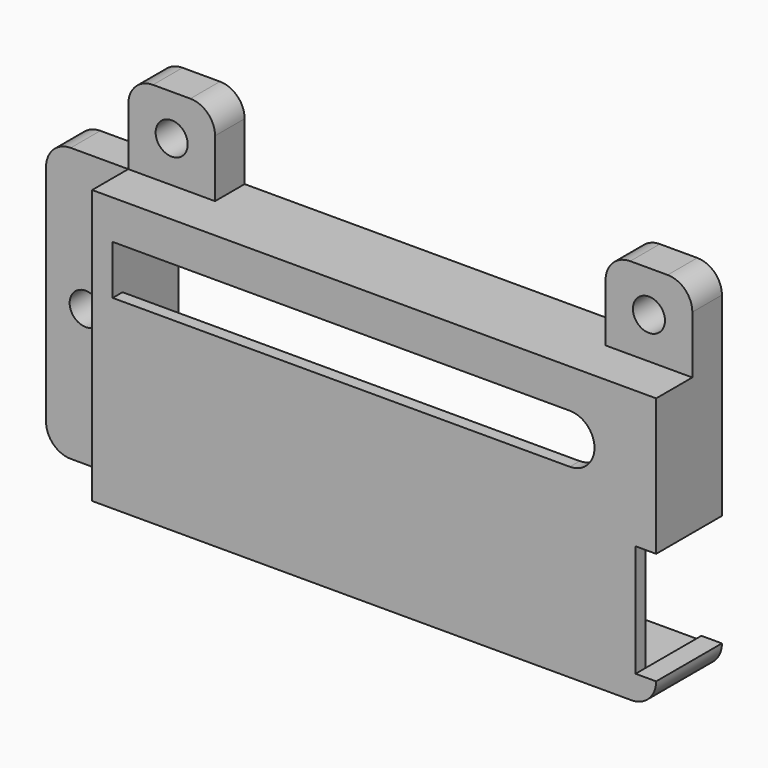
from build123d import *

# Parameters (mm, degrees)
F0_R     = 1.95
F1_DEPTH = 10
F2_DEPTH = 8.5
F3_R     = 1.95
F4_DEPTH = 5.5
F6_DEPTH = 25


with BuildPart() as f1:
    # F0 (on Front) → F1 (new body)
    with BuildSketch(Plane.XZ):
        with BuildLine():
            Line((-34.3, 23.65), (-34.3, 16.65))
            Line((-34.3, 16.65), (-23.75, 16.65))
            Line((-23.75, 16.65), (-23.75, 23.65))
            ThreePointArc((-23.75, 23.65), (-24.62868, 25.77132), (-26.75, 26.65))
            Line((-26.75, 26.65), (-31.3, 26.65))
            ThreePointArc((-31.3, 26.65), (-33.42132, 25.77132), (-34.3, 23.65))
        make_face()
        with Locations((-29.025, 21.65)):
            Circle(F0_R, mode=Mode.SUBTRACT)
        with BuildLine():
            Line((23.75, 16.65), (34.3, 16.65))
            Line((34.3, 16.65), (34.3, 23.65))
            ThreePointArc((34.3, 23.65), (33.42132, 25.77132), (31.3, 26.65))
            Line((31.3, 26.65), (26.75, 26.65))
            ThreePointArc((26.75, 26.65), (24.62868, 25.77132), (23.75, 23.65))
            Line((23.75, 23.65), (23.75, 16.65))
        make_face()
        with Locations((29.025, 21.65)):
            Circle(F0_R, mode=Mode.SUBTRACT)
        with BuildLine():
            Line((34.3, 16.65), (34.3, 6.1))
            Line((34.3, 6.1), (41.3, 6.1))
            ThreePointArc((41.3, 6.1), (43.42132, 6.97868), (44.3, 9.1))
            Line((44.3, 9.1), (44.3, 13.65))
            ThreePointArc((44.3, 13.65), (43.42132, 15.77132), (41.3, 16.65))
            Line((41.3, 16.65), (34.3, 16.65))
        make_face()
        with Locations((39.3, 11.375)):
            Circle(F0_R, mode=Mode.SUBTRACT)
        with BuildLine():
            Line((-31.8, 11.91), (-31.8, 14.15))
            Line((-31.8, 14.15), (31.8, 14.15))
            Line((31.8, 14.15), (31.8, 0))
            Line((31.8, 0), (34.3, 0))
            Line((34.3, 0), (34.3, 6.1))
            Line((34.3, 6.1), (34.3, 16.65))
            Line((34.3, 16.65), (23.75, 16.65))
            Line((23.75, 16.65), (-23.75, 16.65))
            Line((-23.75, 16.65), (-34.3, 16.65))
            Line((-34.3, 16.65), (-34.3, -16.65))
            Line((-34.3, -16.65), (31.3, -16.65))
            ThreePointArc((31.3, -16.65), (33.42132, -15.77132), (34.3, -13.65))
            Line((34.3, -13.65), (31.8, -13.65))
            Line((31.8, -13.65), (31.8, -14.15))
            Line((31.8, -14.15), (-31.8, -14.15))
            Line((-31.8, -14.15), (-31.8, 5.91))
            Line((-31.8, 5.91), (-31.8, 11.91))
        make_face()
        with BuildLine():
            Line((-41.3, -16.65), (-34.3, -16.65))
            Line((-34.3, -16.65), (-34.3, 16.65))
            Line((-34.3, 16.65), (-41.3, 16.65))
            ThreePointArc((-41.3, 16.65), (-43.42132, 15.77132), (-44.3, 13.65))
            Line((-44.3, 13.65), (-44.3, -13.65))
            ThreePointArc((-44.3, -13.65), (-43.42132, -15.77132), (-41.3, -16.65))
        make_face()
        with Locations((-39.483927, 0)):
            Circle(F0_R, mode=Mode.SUBTRACT)
        with BuildLine():
            Line((31.8, 14.15), (-31.8, 14.15))
            Line((-31.8, 14.15), (-31.8, 11.91))
            Line((-31.8, 11.91), (23.8, 11.91))
            ThreePointArc((23.8, 11.91), (26.8, 8.91), (23.8, 5.91))
            Line((23.8, 5.91), (-31.8, 5.91))
            Line((-31.8, 5.91), (-31.8, -14.15))
            Line((-31.8, -14.15), (31.8, -14.15))
            Line((31.8, -14.15), (31.8, -13.65))
            Line((31.8, -13.65), (31.8, 0))
            Line((31.8, 0), (31.8, 14.15))
        make_face()
    extrude(amount=F1_DEPTH)

    # F0 (on Front) → F2 (cut)
    with BuildSketch(Plane.XZ):
        with BuildLine():
            Line((31.8, 14.15), (-31.8, 14.15))
            Line((-31.8, 14.15), (-31.8, 11.91))
            Line((-31.8, 11.91), (23.8, 11.91))
            ThreePointArc((23.8, 11.91), (26.8, 8.91), (23.8, 5.91))
            Line((23.8, 5.91), (-31.8, 5.91))
            Line((-31.8, 5.91), (-31.8, -14.15))
            Line((-31.8, -14.15), (31.8, -14.15))
            Line((31.8, -14.15), (31.8, -13.65))
            Line((31.8, -13.65), (31.8, 0))
            Line((31.8, 0), (31.8, 14.15))
        make_face()
    extrude(amount=F2_DEPTH, mode=Mode.SUBTRACT)

    # F3 (on face) → F4 (cut)
    with BuildSketch(Plane.XZ.offset(10)):
        with BuildLine():
            ThreePointArc((-31.3, 26.65), (-33.42132, 25.77132), (-34.3, 23.65))
            Line((-34.3, 23.65), (-34.3, 16.65))
            Line((-34.3, 16.65), (-23.75, 16.65))
            Line((-23.75, 16.65), (-23.75, 23.65))
            ThreePointArc((-23.75, 23.65), (-24.62868, 25.77132), (-26.75, 26.65))
            Line((-26.75, 26.65), (-31.3, 26.65))
        make_face()
        with Locations((-29.025, 21.65)):
            Circle(F3_R, mode=Mode.SUBTRACT)
        with BuildLine():
            Line((-34.3, -16.65), (-34.3, 16.65))
            Line((-34.3, 16.65), (-41.3, 16.65))
            ThreePointArc((-41.3, 16.65), (-43.42132, 15.77132), (-44.3, 13.65))
            Line((-44.3, 13.65), (-44.3, -13.65))
            ThreePointArc((-44.3, -13.65), (-43.42132, -15.77132), (-41.3, -16.65))
            Line((-41.3, -16.65), (-34.3, -16.65))
        make_face()
        with Locations((-39.483927, 0)):
            Circle(F3_R, mode=Mode.SUBTRACT)
        with BuildLine():
            Line((23.75, 23.65), (23.75, 16.65))
            Line((23.75, 16.65), (34.3, 16.65))
            Line((34.3, 16.65), (34.3, 23.65))
            ThreePointArc((34.3, 23.65), (33.42132, 25.77132), (31.3, 26.65))
            Line((31.3, 26.65), (26.75, 26.65))
            ThreePointArc((26.75, 26.65), (24.62868, 25.77132), (23.75, 23.65))
        make_face()
        with Locations((29.025, 21.65)):
            Circle(F3_R, mode=Mode.SUBTRACT)
        with BuildLine():
            Line((41.3, 16.65), (34.3, 16.65))
            Line((34.3, 16.65), (34.3, 6.1))
            Line((34.3, 6.1), (41.3, 6.1))
            ThreePointArc((41.3, 6.1), (43.42132, 6.97868), (44.3, 9.1))
            Line((44.3, 9.1), (44.3, 13.65))
            ThreePointArc((44.3, 13.65), (43.42132, 15.77132), (41.3, 16.65))
        make_face()
        with Locations((39.3, 11.375)):
            Circle(F3_R, mode=Mode.SUBTRACT)
    extrude(amount=-F4_DEPTH, mode=Mode.SUBTRACT)

    # F5 (on face) → F6 (cut)
    with BuildSketch(Plane.XZ):
        Polygon((52.0982, 24.629619), (34.3, 23.65), (34.3, 16.65), (34.3, 0), (53.583535, -2.356674), align=None)
    extrude(amount=F6_DEPTH, mode=Mode.SUBTRACT)


solid = f1.part
